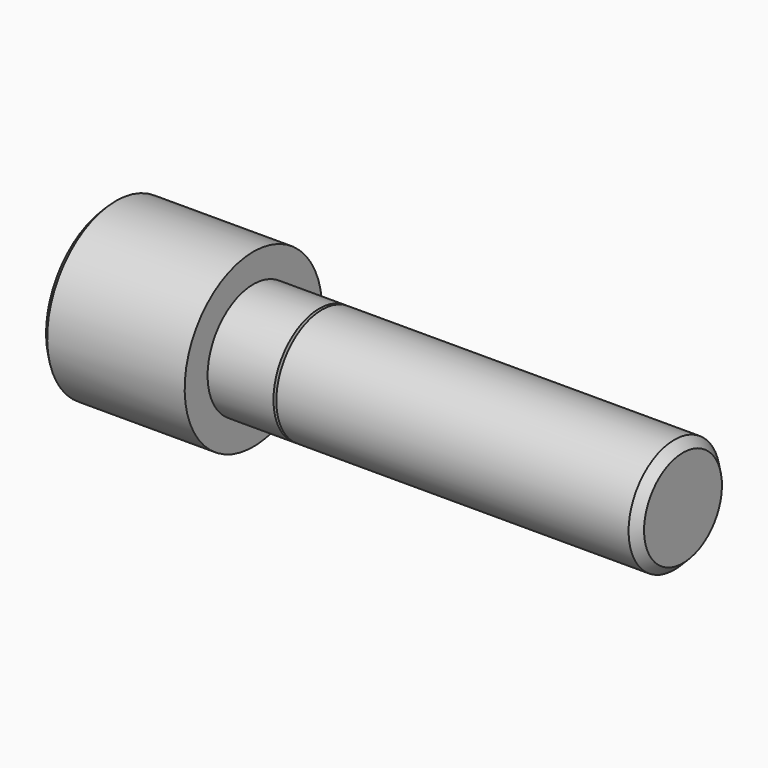
from build123d import *

# Parameters (mm, degrees)
F2_SIZE  = 0.5
F4_DEPTH = 6


with BuildPart() as f1:
    # F0 (on Front) → F1 (revolve)
    with BuildSketch(Plane.XZ):
        Polygon((12.5, 5), (12.5, 7.5), (0, 7.5), (0, 0), (50, 0), (50, 4.25), (49.25, 5), (18.5, 5), (18.375, 4.25), (18.25, 5), align=None)
    revolve(axis=Axis((25, 0, 0), (1, 0, 0)))

    # F2
    f2_edges = [f1.edges().sort_by_distance(p)[0] for p in [
        (0, 0, -7.5),
    ]]
    chamfer(f2_edges, length=F2_SIZE)

    # F3 (on face) → F4 (cut)
    with BuildSketch(Plane(origin=(0, 0, 0), x_dir=(0, -1, 0), z_dir=(-1, 0, 0))):
        Polygon((0, -3.464102), (3, -1.732051), (3, 1.732051), (0, 3.464102), (-3, 1.732051), (-3, -1.732051), align=None)
    extrude(amount=-F4_DEPTH, mode=Mode.SUBTRACT)


solid = f1.part
